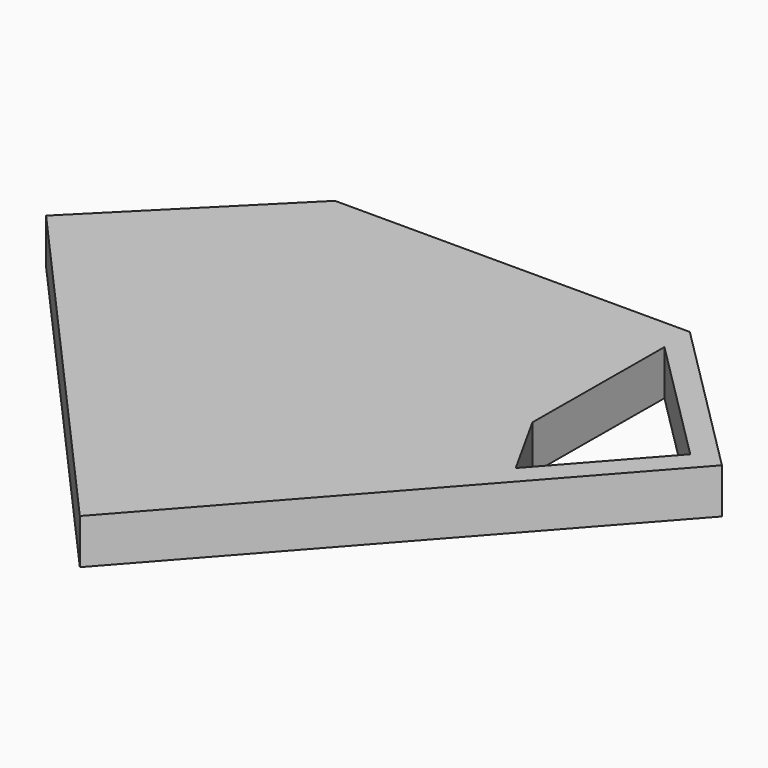
from build123d import *

# Parameters (mm, degrees)
F0_W     = 381
F0_H     = 304.8
F1_DEPTH = 25.4
F3_DEPTH = 25.4
F6_DEPTH = 25.401


with BuildPart() as f1:
    # F0 (on Top) → F1 (new body)
    with BuildSketch(Plane.XY):
        Rectangle(F0_W, F0_H)
    extrude(amount=F1_DEPTH)

    # F2 (on face) → F3 (cut)
    with BuildSketch(Plane.XY.offset(25.4)):
        Polygon((-190.5, 152.4), (-190.5, 61.934096), (-100.034096, 152.4), align=None)
        Polygon((0, -152.4), (-190.5, 61.934096), (-190.5, -152.4), align=None)
    extrude(amount=-F3_DEPTH, mode=Mode.SUBTRACT)

    # F4: F1 across plane


with BuildPart() as f1_1:
    add(f1.part)
    add(f1.part.mirror(Plane.YZ), mode=Mode.INTERSECT)

    # F5 (on face) → F6 (cut, through all)
    with BuildSketch(Plane.XY.offset(25.4)):
        Polygon((173.052639, 61.420945), (100.330883, 134.142701), (99.771466, 41.838474), (121.261792, 3.15037), align=None)
    extrude(amount=-F6_DEPTH, mode=Mode.SUBTRACT)


solid = f1_1.part
